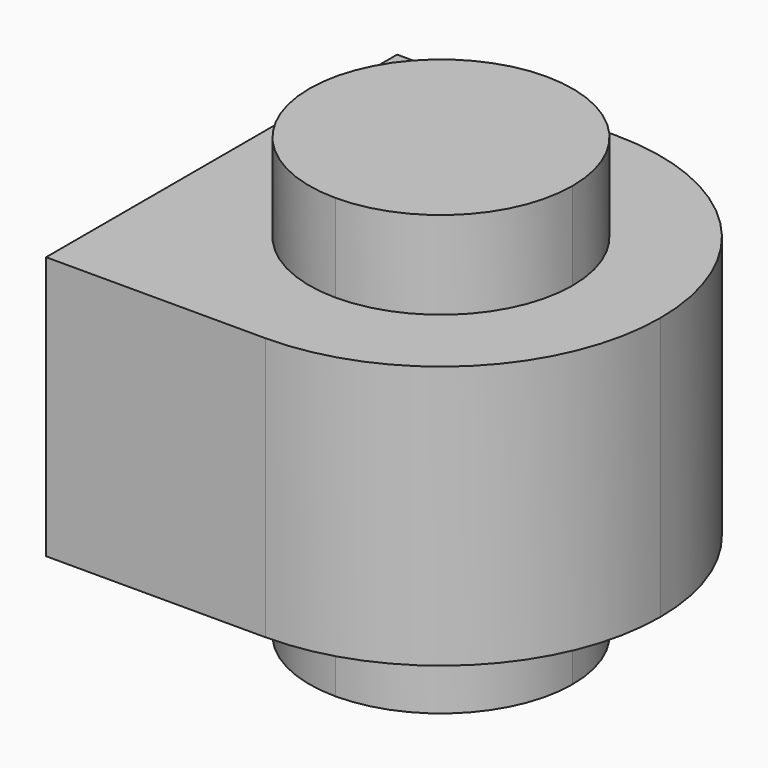
from build123d import *

# Parameters (mm, degrees)
F1_DEPTH = 7.62
F3_DEPTH = 2.54
F5_DEPTH = 2.54


with BuildPart() as f1:
    # F0 (on Top) → F1 (new body)
    with BuildSketch(Plane.XY):
        with BuildLine():
            ThreePointArc((-6.35, 6.35), (-4.4901280605, 1.8598719395), (0, 0))
            Line((0, 0), (0, 12.7))
            ThreePointArc((0, 12.7), (-4.4901280605, 10.8401280605), (-6.35, 6.35))
        make_face()
        with BuildLine():
            Line((0, 12.7), (0, 0))
            ThreePointArc((0, 0), (4.4901280605, 1.8598719395), (6.35, 6.35))
            ThreePointArc((6.35, 6.35), (4.4901280605, 10.8401280605), (0, 12.7))
        make_face()
        with BuildLine():
            Line((-6.35, 0), (0, 0))
            ThreePointArc((0, 0), (-4.4901280605, 1.8598719395), (-6.35, 6.35))
            Line((-6.35, 6.35), (-6.35, 0))
        make_face()
        with BuildLine():
            ThreePointArc((-6.35, 6.35), (-4.4901280605, 10.8401280605), (0, 12.7))
            Line((0, 12.7), (-6.35, 12.7))
            Line((-6.35, 12.7), (-6.35, 6.35))
        make_face()
    extrude(amount=F1_DEPTH)

    # F2 (on face) → F3 (join)
    with BuildSketch(Plane.XY.offset(7.62)):
        with BuildLine():
            ThreePointArc((0, 10.16), (-3.81, 6.35), (0, 2.54))
            Line((0, 2.54), (0, 10.16))
        make_face()
        with BuildLine():
            Line((0, 10.16), (0, 2.54))
            ThreePointArc((0, 2.54), (2.6940768363, 3.6559231637), (3.81, 6.35))
            ThreePointArc((3.81, 6.35), (2.6940768363, 9.0440768363), (0, 10.16))
        make_face()
    extrude(amount=F3_DEPTH)

    # F4 (on face) → F5 (join)
    with BuildSketch(Plane(origin=(0, 0, 0), x_dir=(1, 0, 0), z_dir=(0, 0, -1))):
        with BuildLine():
            ThreePointArc((0, -2.54), (-3.81, -6.35), (0, -10.16))
            Line((0, -10.16), (0, -2.54))
        make_face()
        with BuildLine():
            Line((0, -2.54), (0, -10.16))
            ThreePointArc((0, -10.16), (2.6940768363, -9.0440768363), (3.81, -6.35))
            ThreePointArc((3.81, -6.35), (2.6940768363, -3.6559231637), (0, -2.54))
        make_face()
    extrude(amount=F5_DEPTH)


solid = f1.part
